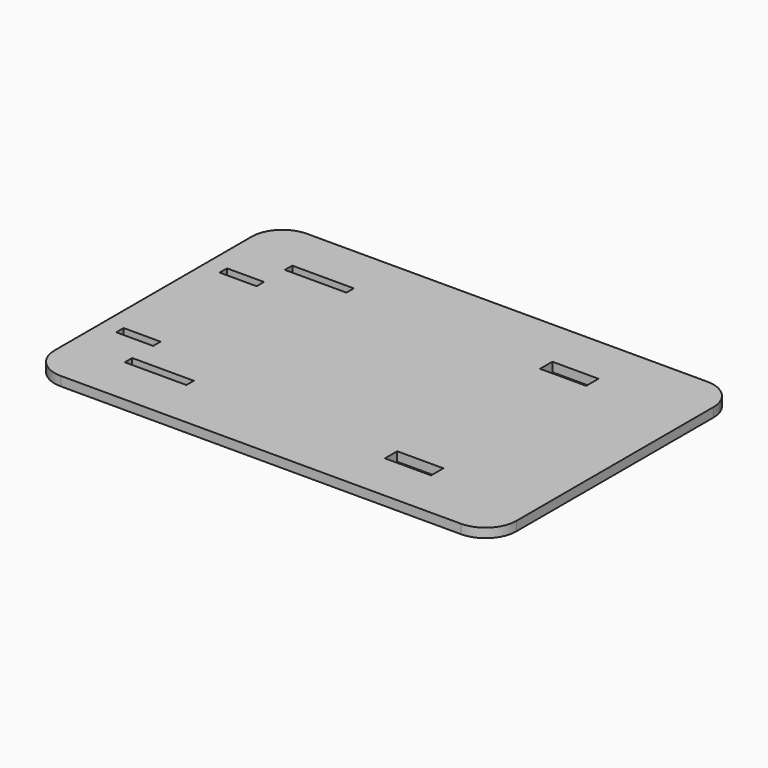
from build123d import *

# Parameters (mm, degrees)
F0_W     = 20
F0_H     = 3
F0_W_2   = 12
F0_W_3   = 15
F0_H_2   = 5
F1_DEPTH = 3


with BuildPart() as f1:
    # F0 (on Top) → F1 (new body)
    with BuildSketch(Plane.XY):
        with BuildLine():
            Line((65, 50), (-65, 50))
            ThreePointArc((-65, 50), (-72.071068, 47.071068), (-75, 40))
            Line((-75, 40), (-75, -40))
            ThreePointArc((-75, -40), (-72.071068, -47.071068), (-65, -50))
            Line((-65, -50), (65, -50))
            ThreePointArc((65, -50), (72.071068, -47.071068), (75, -40))
            Line((75, -40), (75, 40))
            ThreePointArc((75, 40), (72.071068, 47.071068), (65, 50))
        make_face()
        with Locations((-47, -32.5)):
            Rectangle(F0_W, F0_H, mode=Mode.SUBTRACT)
        with Locations((-63, -21)):
            Rectangle(F0_W_2, F0_H, mode=Mode.SUBTRACT)
        with Locations((35, -31.5)):
            Rectangle(F0_W_3, F0_H_2, mode=Mode.SUBTRACT)
        with Locations((-63, 21)):
            Rectangle(F0_W_2, F0_H, mode=Mode.SUBTRACT)
        with Locations((-47, 32.5)):
            Rectangle(F0_W, F0_H, mode=Mode.SUBTRACT)
        with Locations((35, 31.5)):
            Rectangle(F0_W_3, F0_H_2, mode=Mode.SUBTRACT)
    extrude(amount=F1_DEPTH)


solid = f1.part
